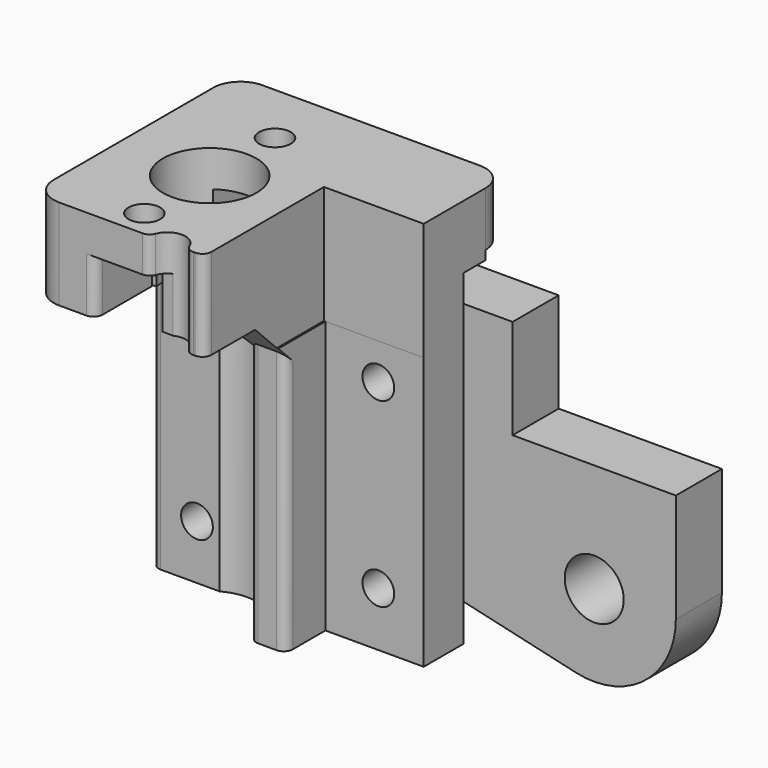
from build123d import *

# Parameters (mm, degrees)
SKETCH_R          = 1.75
SKETCH_R_2        = 3.25
PAD_DEPTH         = 6.35
PAD001_DEPTH      = 15
PAD001_DEPTH_BACK = 15
SKETCH014_W       = 12
SKETCH014_H       = 6
POCKET_DEPTH      = 28.001
SKETCH013_R       = 1.75
POCKET001_DEPTH   = 21
SKETCH012_R       = 5.15
POCKET002_DEPTH   = 43.001
SKETCH007_R       = 1.75
POCKET003_DEPTH   = 17.001
SKETCH008_W       = 6.407674
SKETCH008_H       = 16
SKETCH008_W_2     = 6.93002
SKETCH008_H_2     = 13.41794
POCKET004_DEPTH   = 31
SKETCH018_R       = 2
POCKET005_DEPTH   = 55.001
SKETCH020_W       = 2.261289
SKETCH020_H       = 2.342064
POCKET006_DEPTH   = 6
SKETCH015_W       = 50.47
SKETCH015_H       = 40
POCKET007_DEPTH   = 3
SKETCH021_W       = 19.657055
SKETCH021_H       = 16.106247
POCKET008_DEPTH   = 13
CHAMFER_SIZE      = 4
CHAMFER001_SIZE   = 1
FILLET_R          = 3
FILLET001_R       = 1
FILLET002_R       = 1
FILLET003_R       = 1
FILLET004_R       = 1
FILLET005_R       = 1
FILLET006_R       = 1
FILLET007_R       = 1
FILLET008_R       = 1
CHAMFER002_SIZE   = 2
CHAMFER003_SIZE   = 2
FILLET009_R       = 1


with BuildPart() as tab:
    # Sketch → Pad (new body)
    with BuildSketch(Plane.XZ):
        with BuildLine():
            Line((-13, 11), (18, 11))
            Line((18, 11), (18, 0))
            Line((18, 0), (36, 0))
            Line((36, 0), (36, -12))
            ThreePointArc((24.974342, -20.769077), (32.602191, -19.043824), (36, -12))
            Line((0, -15), (24.974342, -20.769077))
            Line((-13, -15), (0, -15))
            Line((-13, -15), (-13, 11))
        make_face()
        with Locations((-10, 7.5)):
            Circle(SKETCH_R, mode=Mode.SUBTRACT)
        with Locations((10, 7.5)):
            Circle(SKETCH_R, mode=Mode.SUBTRACT)
        with Locations((-10, -7.5)):
            Circle(SKETCH_R, mode=Mode.SUBTRACT)
        with Locations((10, -7.5)):
            Circle(SKETCH_R, mode=Mode.SUBTRACT)
        with Locations((27, -12)):
            Circle(SKETCH_R_2, mode=Mode.SUBTRACT)
    extrude(amount=PAD_DEPTH)


with BuildPart() as tab_1:
    # Body placement: moved
    add(tab.part.moved(Location((0, 6.35, 0))))


with BuildPart() as obj1:
    # Sketch005 → Pad001 (new body, two sides)
    with BuildSketch(Plane.YZ) as pad001_sk:
        Polygon((0, -20), (0, 17), (3, 17), (3, 23), (-25, 23), (-25, 13), (-14, 13), (-14, -20), align=None)
    extrude(amount=PAD001_DEPTH)
    extrude(pad001_sk.sketch, amount=-PAD001_DEPTH_BACK)

    # Sketch014 (on Face5 of Pad001) → Pocket (cut, through all)
    with BuildSketch(Plane(origin=(0, -25, 0), x_dir=(0, 0, -1), z_dir=(0, -1, 0))):
        with Locations((-13, -5)):
            Rectangle(SKETCH014_W, SKETCH014_H)
    extrude(amount=-POCKET_DEPTH, mode=Mode.SUBTRACT)

    # Sketch013 → Pocket001 (cut)
    with BuildSketch(Plane(origin=(0, 0, 35), x_dir=(0, -1, 0), z_dir=(0, 0, 1))):
        with Locations((4, -5)):
            Circle(SKETCH013_R)
        with Locations((22, -5)):
            Circle(SKETCH013_R)
    extrude(amount=-POCKET001_DEPTH, mode=Mode.SUBTRACT)

    # Sketch012 (on Face4 of Pad001) → Pocket002 (cut, through all)
    with BuildSketch(Plane(origin=(0, 0, 23), x_dir=(0, -1, 0), z_dir=(0, 0, 1))):
        with Locations((13, -5)):
            Circle(SKETCH012_R)
    extrude(amount=-POCKET002_DEPTH, mode=Mode.SUBTRACT)

    # Sketch007 → Pocket003 (cut, through all)
    with BuildSketch(Plane(origin=(0, -14, 0), x_dir=(0, 0, -1), z_dir=(0, -1, 0))):
        with Locations((-6, 10)):
            Circle(SKETCH007_R)
        with Locations((14, 10)):
            Circle(SKETCH007_R)
        with Locations((-6, -10)):
            Circle(SKETCH007_R)
        with Locations((14, -10)):
            Circle(SKETCH007_R)
    extrude(amount=-POCKET003_DEPTH, mode=Mode.SUBTRACT)

    # Sketch008 → Pocket004 (cut)
    with BuildSketch(Plane.YX.offset(20)):
        with Locations((-11.703837, -8)):
            Rectangle(SKETCH008_W, SKETCH008_H)
        with Locations((-11.96501, 10.872729)):
            Rectangle(SKETCH008_W_2, SKETCH008_H_2)
    extrude(amount=-POCKET004_DEPTH, mode=Mode.SUBTRACT)

    # Sketch018 → Pocket005 (cut, through all)
    with BuildSketch(Plane(origin=(0, 0, 35), x_dir=(0, -1, 0), z_dir=(0, 0, 1))):
        with Locations((25.089622, 0)):
            Circle(SKETCH018_R)
    extrude(amount=-POCKET005_DEPTH, mode=Mode.SUBTRACT)

    # Sketch020 (on Face29 of Pocket005) → Pocket006 (cut)
    with BuildSketch(Plane.YX.offset(-13)):
        with Locations((-24.390742, -1.171032)):
            Rectangle(SKETCH020_W, SKETCH020_H)
    extrude(amount=-POCKET006_DEPTH, mode=Mode.SUBTRACT)

    # Sketch015 → Pocket007 (cut)
    with BuildSketch(Plane.ZX):
        with Locations((-9.235, 0)):
            Rectangle(SKETCH015_W, SKETCH015_H)
    extrude(amount=-POCKET007_DEPTH, mode=Mode.SUBTRACT)

    # Sketch021 (on Face11 of Pocket007) → Pocket008 (cut)
    with BuildSketch(Plane(origin=(0, 0, 23), x_dir=(0, -1, 0), z_dir=(0, 0, 1))):
        with Locations((18.328527, 12.053123)):
            Rectangle(SKETCH021_W, SKETCH021_H)
    extrude(amount=-POCKET008_DEPTH, mode=Mode.SUBTRACT)

    # Chamfer
    chamfer_edges = [obj1.edges().sort_by_distance(p)[0] for p in [
        (2.02599, -14, 13),
    ]]
    chamfer(chamfer_edges, length=CHAMFER_SIZE)

    # Chamfer001
    chamfer001_edges = [obj1.edges().sort_by_distance(p)[0] for p in [
        (-12.52599, -14, 13),
    ]]
    chamfer(chamfer001_edges, length=CHAMFER001_SIZE)

    # Fillet
    fillet_edges = [obj1.edges().sort_by_distance(p)[0] for p in [
        (-15, -25, 18),
        (-15, 3, 20),
        (15, 3, 20),
    ]]
    fillet(fillet_edges, radius=FILLET_R)

    # Fillet001
    fillet001_edges = [obj1.edges().sort_by_distance(p)[0] for p in [
        (4, -25, 18),
    ]]
    fillet(fillet001_edges, radius=FILLET001_R)

    # Fillet002
    fillet002_edges = [obj1.edges().sort_by_distance(p)[0] for p in [
        (1.997991, -25, 18),
    ]]
    fillet(fillet002_edges, radius=FILLET002_R)

    # Fillet003
    fillet003_edges = [obj1.edges().sort_by_distance(p)[0] for p in [
        (0.05198, -14, -5.5),
    ]]
    fillet(fillet003_edges, radius=FILLET003_R)

    # Fillet004
    fillet004_edges = [obj1.edges().sort_by_distance(p)[0] for p in [
        (4.163759, -14, -5.5),
    ]]
    fillet(fillet004_edges, radius=FILLET004_R)

    # Fillet005
    fillet005_edges = [obj1.edges().sort_by_distance(p)[0] for p in [
        (-8, -25, 16),
    ]]
    fillet(fillet005_edges, radius=FILLET005_R)

    # Fillet006
    fillet006_edges = [obj1.edges().sort_by_distance(p)[0] for p in [
        (-15, -8.5, -4.5),
        (-15, -3, -2),
    ]]
    fillet(fillet006_edges, radius=FILLET006_R)

    # Fillet007
    fillet007_edges = [obj1.edges().sort_by_distance(p)[0] for p in [
        (-2, 3, 18),
        (-8, 3, 18),
    ]]
    fillet(fillet007_edges, radius=FILLET007_R)

    # Fillet008
    fillet008_edges = [obj1.edges().sort_by_distance(p)[0] for p in [
        (-2, 0, 16.5),
        (-8, 0, 16.5),
    ]]
    fillet(fillet008_edges, radius=FILLET008_R)

    # Chamfer002
    chamfer002_edges = [obj1.edges().sort_by_distance(p)[0] for p in [
        (-8, -5.75, 7),
        (-2, -5.75, 7),
    ]]
    chamfer(chamfer002_edges, length=CHAMFER002_SIZE)

    # Chamfer003
    chamfer003_edges = [obj1.edges().sort_by_distance(p)[0] for p in [
        (-3, -3, 8),
        (-5, -3, 7),
        (-7, -3, 8),
    ]]
    chamfer(chamfer003_edges, length=CHAMFER003_SIZE)

    # Fillet009
    fillet009_edges = [obj1.edges().sort_by_distance(p)[0] for p in [
        (-1.997991, -25, 21),
    ]]
    fillet(fillet009_edges, radius=FILLET009_R)


solid = Compound([tab_1.part, obj1.part])
